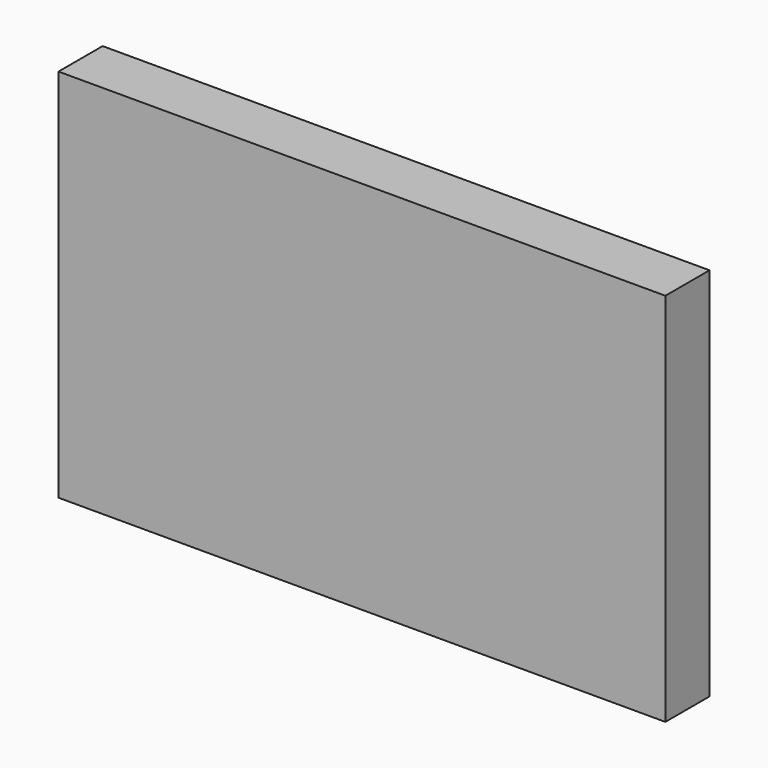
from build123d import *

# Parameters (mm, degrees)
F0_W     = 440
F0_H     = 272
F1_DEPTH = 40
F2_D     = 4.4
F2_DEPTH = 10
F2_TIP   = 1.3218933619


with BuildPart() as f1:
    # F0 (on Front) → F1 (new body)
    with BuildSketch(Plane.XZ):
        Rectangle(F0_W, F0_H)
    extrude(amount=F1_DEPTH)

    # F2
    with Locations(Plane(origin=(0, 0, 0), x_dir=(1, 0, 0), z_dir=(0, 1, 0))):
        with Locations((50, -50), (-50, -50), (-50, 50), (50, 50)):
            Hole(F2_D / 2, depth=F2_DEPTH)
            with Locations((0, 0, -(F2_DEPTH + F2_TIP / 2))):  # 118° drill point
                Cone(0, F2_D / 2, F2_TIP, mode=Mode.SUBTRACT)


solid = f1.part
